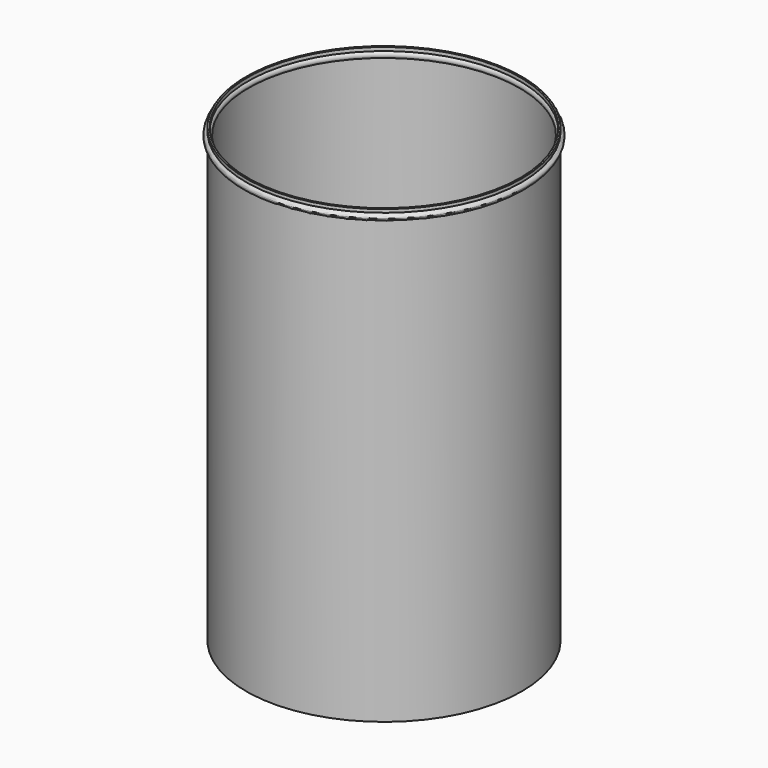
from build123d import *

# Parameters (mm, degrees)
F0_R     = 279.4
F0_R_2   = 275.971
F1_DEPTH = 914.4
F2_R     = 6.829463
F4_R     = 4.145592


with BuildPart() as f1:
    # F0 (on Top) → F1 (new body)
    with BuildSketch(Plane.XY):
        Circle(F0_R)
        Circle(F0_R_2, mode=Mode.SUBTRACT)
    extrude(amount=F1_DEPTH)

    # F2 (on Front) → F3 (revolve)
    with BuildSketch(Plane.XZ):
        with Locations((278.914332, 901.003897)):
            Circle(F2_R)
    revolve(axis=Axis((0, 0, 914.4), (0, 0, 1)))

    # F4 (on Front) → F5 (revolve, cut)
    with BuildSketch(Plane.XZ):
        with Locations((279.408395, 900.927186)):
            Circle(F4_R)
    revolve(axis=Axis((0, 0, 914.4), (0, 0, 1)), mode=Mode.SUBTRACT)


solid = f1.part
